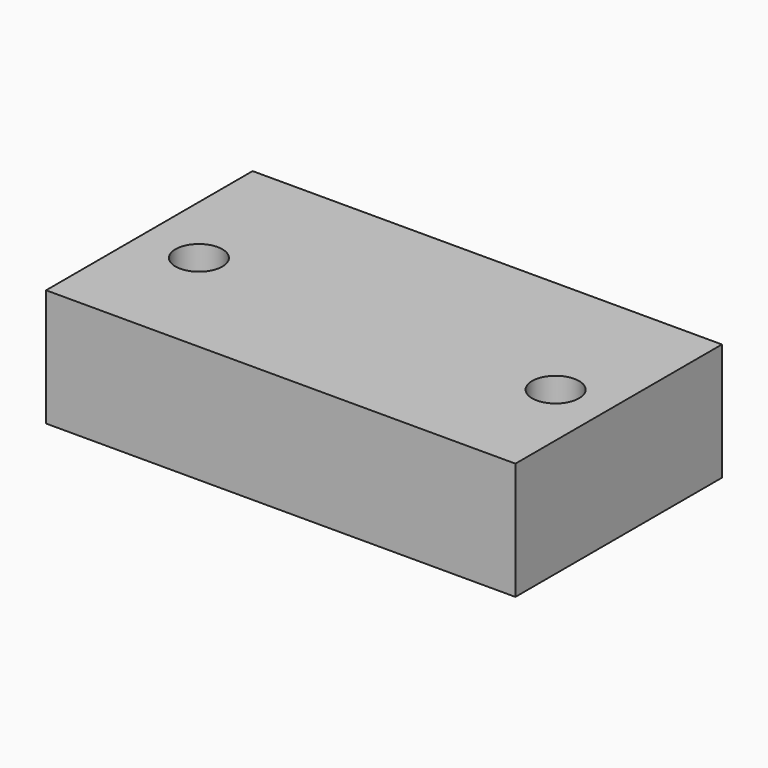
from build123d import *

# Parameters (mm, degrees)
F0_W     = 100
F0_H     = 55
F1_DEPTH = 25
F2_R     = 5
F3_DEPTH = 25


with BuildPart() as f1:
    # F0 (on Top) → F1 (new body)
    with BuildSketch(Plane.XY):
        with Locations((-50, 27.5)):
            Rectangle(F0_W, F0_H)
    extrude(amount=F1_DEPTH)

    # F2 (on Top) → F3 (cut)
    with BuildSketch(Plane.XY):
        with Locations((-87.434283, 25)):
            Circle(F2_R)
        with Locations((-11.434283, 25)):
            Circle(F2_R)
    extrude(amount=F3_DEPTH, mode=Mode.SUBTRACT)


solid = f1.part
